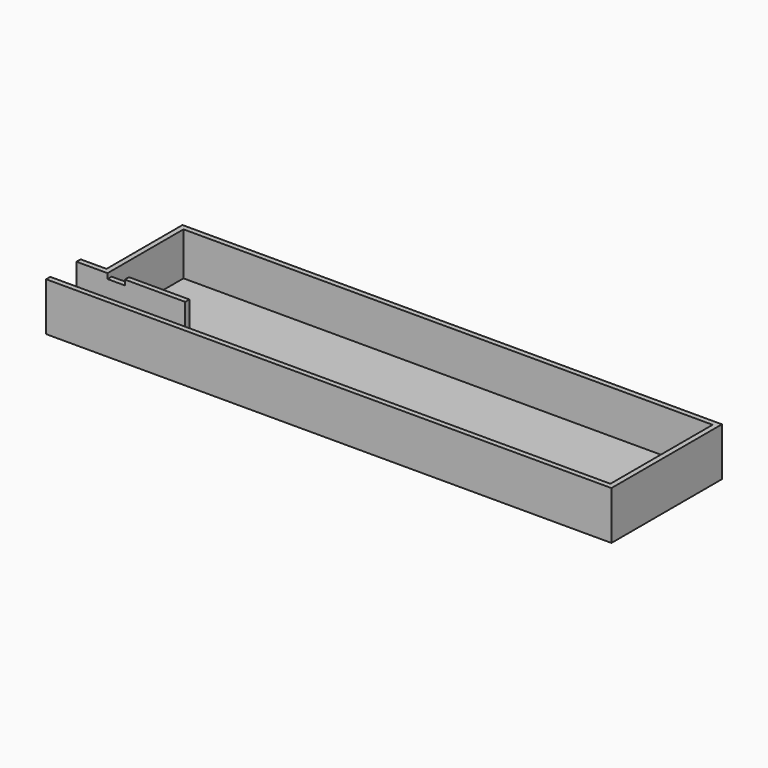
from build123d import *

# Parameters (mm, degrees)
F1_DEPTH = 1.2
F2_W     = 18
F2_H     = 1.2
F3_DEPTH = 10
F4_W     = 4
F4_H     = 1.2
F5_DEPTH = 1.2


with BuildPart() as f1:
    # F0 (on Top) → F1 (new body)
    with BuildSketch(Plane.XY):
        Polygon((-125, 0), (0, 0), (0, 32), (-125, 32), (-125, 10), (-131, 10), (-131, 0), align=None)
    extrude(amount=F1_DEPTH)

    # F2 (on face) → F3 (join)
    with BuildSketch(Plane.XY.offset(1.2)):
        Polygon((-131, 0), (0, 0), (0, 32), (-125, 32), (-125, 10), (-131, 10), (-131, 8.8), (-123.8, 8.8), (-123.8, 10), (-123.8, 30.8), (-1.2, 30.8), (-1.2, 1.2), (-131, 1.2), align=None)
        with Locations((-114.8, 9.4)):
            Rectangle(F2_W, F2_H)
    extrude(amount=F3_DEPTH)

    # F4 (on face) → F5 (cut, through all)
    with BuildSketch(Plane(origin=(0, 10, 0), x_dir=(-1, 0, 0), z_dir=(0, 1, 0))):
        with Locations((121.8, 10.6)):
            Rectangle(F4_W, F4_H)
    extrude(amount=-F5_DEPTH, mode=Mode.SUBTRACT)


solid = f1.part
